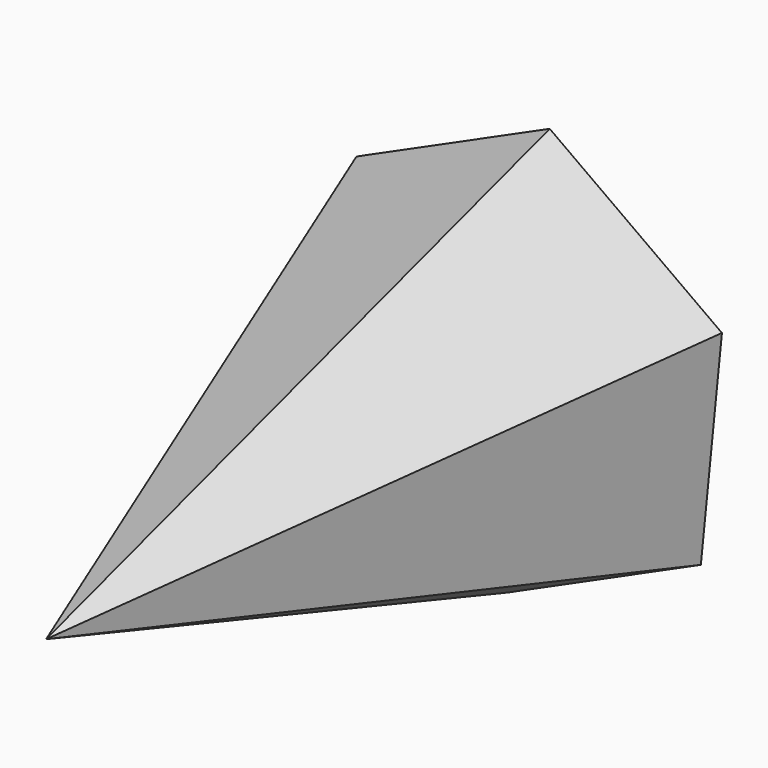
from build123d import *


with BuildPart() as f3:
    # F0 (on Front) → F3 section 0
    with BuildSketch(Plane.XZ, mode=Mode.PRIVATE) as f3_s0:
        Polygon((3.491628, 34.976915), (-28.545083, 20.512296), (-32.036711, -14.46462), (-3.491628, -34.976915), (28.545083, -20.512296), (32.036711, 14.46462), align=None)
    loft([f3_s0.sketch, Vertex(0, -100, 0)])


solid = f3.part
